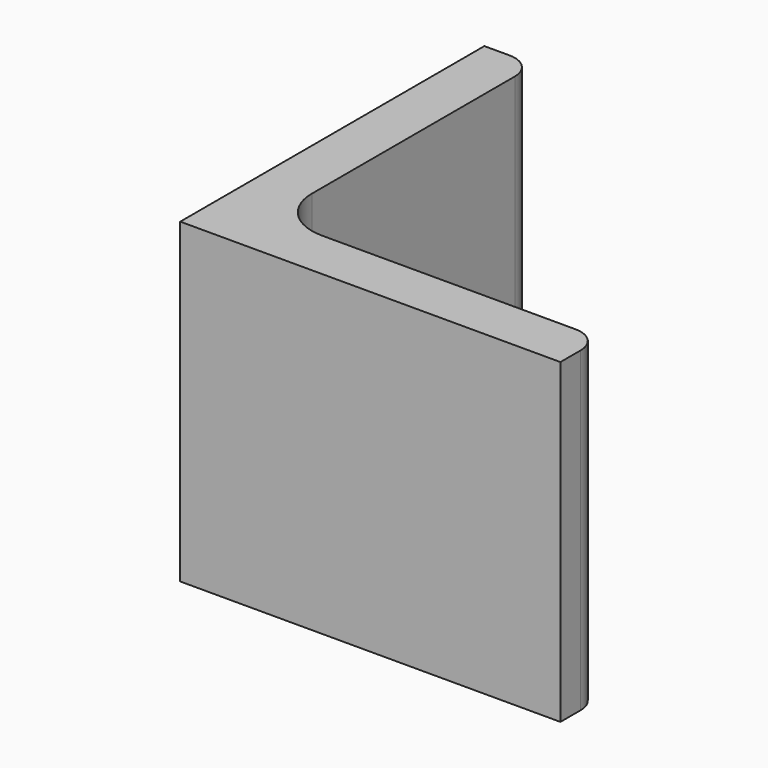
from build123d import *

# Parameters (mm, degrees)
EXTRUDE_DEPTH = 50


with BuildPart() as part:
    # Sketch → Extrude (new body)
    with BuildSketch(Plane.XY):
        with BuildLine():
            Line((0, 0), (60, 0))
            Line((60, 0), (60, 4))
            ThreePointArc((60, 4), (58.828427, 6.828427), (56, 8))
            Line((56, 8), (16, 8))
            ThreePointArc((8, 16), (10.343146, 10.343146), (16, 8))
            Line((8, 56), (8, 16))
            ThreePointArc((8, 56), (6.828427, 58.828427), (4, 60))
            Line((0, 60), (4, 60))
            Line((0, 0), (0, 60))
        make_face()
    extrude(amount=EXTRUDE_DEPTH)


solid = part.part
